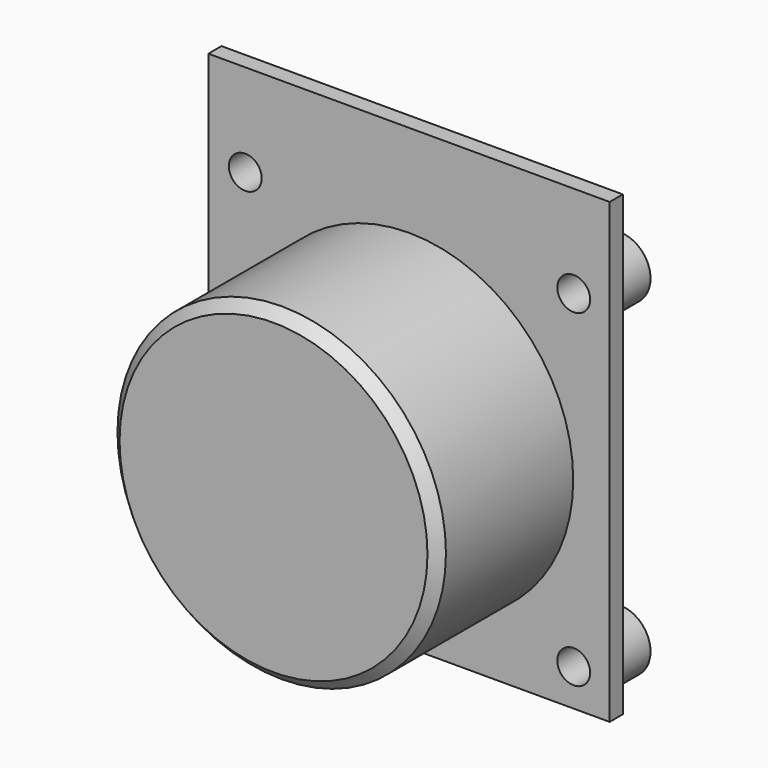
from build123d import *

# Parameters (mm, degrees)
SKETCH011_W     = 39.1
SKETCH011_H     = 44.6
SKETCH011_R     = 1.6
PAD007_DEPTH    = 1.6
SKETCH012_R     = 16
PAD008_DEPTH    = 16.5
SKETCH013_R     = 3
SKETCH013_R_2   = 1.6
PAD009_DEPTH    = 4
CHAMFER001_SIZE = 1


with BuildPart() as part:
    # Sketch011 → Pad007 (new body)
    with BuildSketch(Plane.XZ):
        Rectangle(SKETCH011_W, SKETCH011_H)
        with Locations((-15.95, 13.3)):
            Circle(SKETCH011_R, mode=Mode.SUBTRACT)
        with Locations((16.05, 13.3)):
            Circle(SKETCH011_R, mode=Mode.SUBTRACT)
        with Locations((16.05, -18.7)):
            Circle(SKETCH011_R, mode=Mode.SUBTRACT)
        with Locations((-15.95, -18.7)):
            Circle(SKETCH011_R, mode=Mode.SUBTRACT)
    extrude(amount=PAD007_DEPTH)

    # Sketch012 (on Face10 of Pad007) → Pad008 (join)
    with BuildSketch(Plane.XZ.offset(1.6)):
        with Locations((0, -2.7)):
            Circle(SKETCH012_R)
    extrude(amount=PAD008_DEPTH)

    # Sketch013 (on Face4 of Pad008) → Pad009 (join)
    with BuildSketch(Plane(origin=(0, 0, 0), x_dir=(1, 0, 0), z_dir=(0, 1, 0))):
        with Locations((-15.95, 18.7)):
            Circle(SKETCH013_R)
        with Locations((-15.95, 18.7)):
            Circle(SKETCH013_R_2, mode=Mode.SUBTRACT)
        with Locations((16.05, 18.7)):
            Circle(SKETCH013_R)
        with Locations((16.05, 18.7)):
            Circle(SKETCH013_R_2, mode=Mode.SUBTRACT)
        with Locations((16.05, -13.3)):
            Circle(SKETCH013_R)
        with Locations((16.05, -13.3)):
            Circle(SKETCH013_R_2, mode=Mode.SUBTRACT)
        with Locations((-15.95, -13.3)):
            Circle(SKETCH013_R)
        with Locations((-15.95, -13.3)):
            Circle(SKETCH013_R_2, mode=Mode.SUBTRACT)
    extrude(amount=PAD009_DEPTH)

    # Chamfer001
    chamfer001_edges = [part.edges().sort_by_distance(p)[0] for p in [
        (-16, -18.1, -2.7),
    ]]
    chamfer(chamfer001_edges, length=CHAMFER001_SIZE)


with BuildPart() as part_1:
    # Body008 placement: moved
    add(part.part.moved(Location((-20, -18.1, -102.9))))


solid = part_1.part
